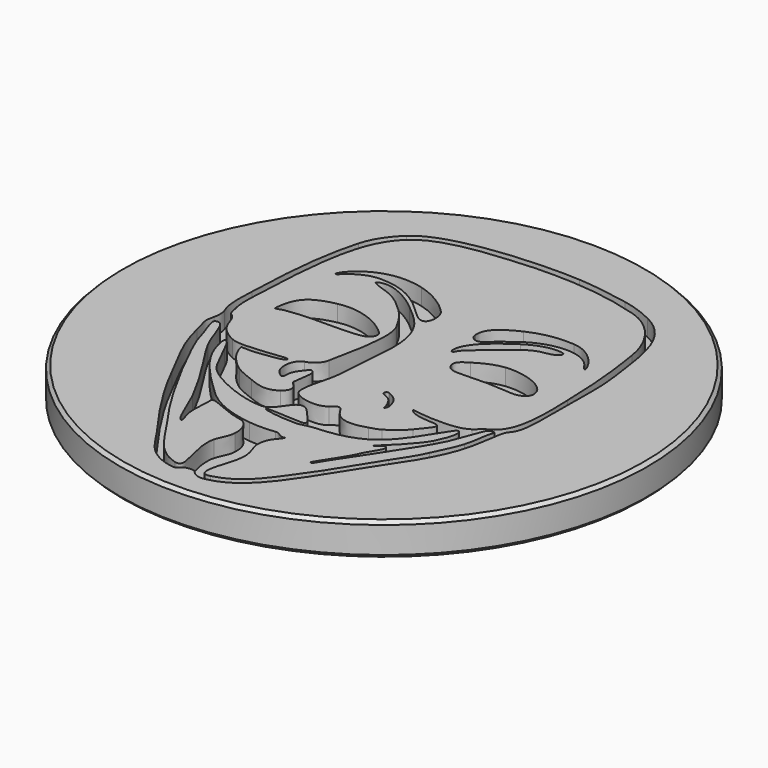
from build123d import *

# Parameters (mm, degrees)
POCKET_DEPTH = 1.25


with BuildPart() as part:
    # Sketch004 (on DatumPlane) → Revolution (revolve)
    with BuildSketch(Plane.YZ):
        Polygon((0, 0), (0, -2.5), (19.75, -2.5), (20, -2.25), (20, -0.25), (19.75, 0), align=None)
    revolve(axis=Axis((0, 0, 0), (0, 0, 1)))

    # Sketch (on DatumPlane) → Pocket (cut)
    with BuildSketch(Plane.XY):
        with BuildLine():
            add(Edge.make_bspline(
                [(0.955989, -17.970595), (0.45599, -18.116285), (0.051452, -18.007848), (-0.272673, -17.593384)],
                knots=[0, 0, 0, 0, 1, 1, 1, 1], degree=3))
            add(Edge.make_bspline(
                [(-0.272673, -17.593384), (-0.386063, -17.448371), (-1.074318, -17.538266), (-1.173695, -17.712468)],
                knots=[0, 0, 0, 0, 1, 1, 1, 1], degree=3))
            add(Edge.make_bspline(
                [(-1.173695, -17.712468), (-1.328191, -17.983232), (-1.57946, -17.973791), (-1.808674, -17.934485)],
                knots=[0, 0, 0, 0, 1, 1, 1, 1], degree=3))
            add(Edge.make_bspline(
                [(-1.808674, -17.934485), (-3.8582, -17.583033), (-4.463567, -16.00889), (-5.076913, -15.175156)],
                knots=[0, 0, 0, 0, 1, 1, 1, 1], degree=3))
            add(Edge.make_bspline(
                [(-5.076913, -15.175156), (-6.370006, -13.417455), (-8.048713, -11.00763), (-9.284741, -8.475715)],
                knots=[0, 0, 0, 0, 1, 1, 1, 1], degree=3))
            add(Edge.make_bspline(
                [(-9.284741, -8.475715), (-10.393303, -6.205146), (-10.903568, -5.678731), (-11.510247, -3.333993)],
                knots=[0, 0, 0, 0, 1, 1, 1, 1], degree=3))
            add(Edge.make_bspline(
                [(-11.510247, -3.333993), (-11.844722, -2.041324), (-11.883521, -2.229538), (-11.714822, -1.450266)],
                knots=[0, 0, 0, 0, 1, 1, 1, 1], degree=3))
            add(Edge.make_bspline(
                [(-11.714822, -1.450266), (-11.642813, -1.117589), (-11.617435, -0.739807), (-11.755674, -0.401457)],
                knots=[0, 0, 0, 0, 1, 1, 1, 1], degree=3))
            add(Edge.make_bspline(
                [(-11.755674, -0.401457), (-12.124292, 0.500645), (-12.012955, 1.536647), (-11.985565, 2.486755)],
                knots=[0, 0, 0, 0, 1, 1, 1, 1], degree=3))
            add(Edge.make_bspline(
                [(-11.985565, 2.486755), (-11.848638, 7.236746), (-11.42086, 9.439455), (-10.928608, 11.252422)],
                knots=[0, 0, 0, 0, 1, 1, 1, 1], degree=3))
            add(Edge.make_bspline(
                [(-10.928608, 11.252422), (-10.665951, 12.219781), (-10.04037, 13.106517), (-9.307432, 13.789184)],
                knots=[0, 0, 0, 0, 1, 1, 1, 1], degree=3))
            add(Edge.make_bspline(
                [(-9.307432, 13.789184), (-7.222938, 15.730675), (-0.588945, 15.955402), (2.178914, 15.790916)],
                knots=[0, 0, 0, 0, 1, 1, 1, 1], degree=3))
            add(Edge.make_bspline(
                [(2.178914, 15.790916), (3.492221, 15.712874), (4.778985, 15.485184), (6.063315, 15.248033)],
                knots=[0, 0, 0, 0, 1, 1, 1, 1], degree=3))
            add(Edge.make_bspline(
                [(6.063315, 15.248033), (6.876962, 15.097792), (7.659472, 14.809163), (8.418085, 14.442874)],
                knots=[0, 0, 0, 0, 1, 1, 1, 1], degree=3))
            add(Edge.make_bspline(
                [(8.418085, 14.442874), (11.13832, 13.129461), (11.141685, 10.033752), (11.557123, 7.45563)],
                knots=[0, 0, 0, 0, 1, 1, 1, 1], degree=3))
            add(Edge.make_bspline(
                [(11.557123, 7.45563), (11.755497, 6.224662), (11.696273, 4.964293), (11.696802, 3.72219)],
                knots=[0, 0, 0, 0, 1, 1, 1, 1], degree=3))
            add(Edge.make_bspline(
                [(11.696802, 3.72219), (11.698474, -0.148643), (11.740321, -1.409097), (11.196613, -2.026168)],
                knots=[0, 0, 0, 0, 1, 1, 1, 1], degree=3))
            add(Edge.make_bspline(
                [(11.196613, -2.026168), (10.887727, -2.376752), (10.883198, -2.919), (10.808501, -3.35662)],
                knots=[0, 0, 0, 0, 1, 1, 1, 1], degree=3))
            add(Edge.make_bspline(
                [(10.808501, -3.35662), (10.608052, -4.531265), (10.531217, -5.844466), (9.093366, -8.257254)],
                knots=[0, 0, 0, 0, 1, 1, 1, 1], degree=3))
            add(Edge.make_bspline(
                [(9.093366, -8.257254), (8.701528, -8.914775), (8.258129, -9.538388), (7.841759, -10.179484)],
                knots=[0, 0, 0, 0, 1, 1, 1, 1], degree=3))
            add(Edge.make_bspline(
                [(7.841759, -10.179484), (5.116784, -14.37514), (3.656559, -17.399391), (0.955989, -17.970595)],
                knots=[0, 0, 0, 0, 1, 1, 1, 1], degree=3))
        make_face()
        with BuildLine():
            add(Edge.make_bspline(
                [(4.919235, -3.373935), (4.954182, -3.435085), (8.222802, -3.912711), (9.204702, -3.146562)],
                knots=[0, 0, 0, 0, 1, 1, 1, 1], degree=3))
            add(Edge.make_bspline(
                [(9.204702, -3.146562), (9.555053, -2.873195), (9.88356, -2.564352), (10.260305, -2.334482)],
                knots=[0, 0, 0, 0, 1, 1, 1, 1], degree=3))
            add(Edge.make_bspline(
                [(10.260305, -2.334482), (11.59408, -1.520666), (11.309389, 2.090854), (11.288751, 3.295301)],
                knots=[0, 0, 0, 0, 1, 1, 1, 1], degree=3))
            add(Edge.make_bspline(
                [(11.288751, 3.295301), (11.225166, 7.005246), (10.759309, 9.5299), (10.669774, 10.15057)],
                knots=[0, 0, 0, 0, 1, 1, 1, 1], degree=3))
            add(Edge.make_bspline(
                [(10.669774, 10.15057), (10.404937, 11.986144), (9.166518, 13.814944), (7.334246, 14.36496)],
                knots=[0, 0, 0, 0, 1, 1, 1, 1], degree=3))
            add(Edge.make_bspline(
                [(7.334246, 14.36496), (4.138355, 15.324296), (1.531172, 15.363222), (-0.757897, 15.302156)],
                knots=[0, 0, 0, 0, 1, 1, 1, 1], degree=3))
            add(Edge.make_bspline(
                [(-0.757897, 15.302156), (-1.473839, 15.283064), (-3.839997, 15.078551), (-4.585995, 14.967617)],
                knots=[0, 0, 0, 0, 1, 1, 1, 1], degree=3))
            add(Edge.make_bspline(
                [(-4.585995, 14.967617), (-9.633568, 14.217026), (-11.123278, 12.915233), (-11.465564, 3.001232)],
                knots=[0, 0, 0, 0, 1, 1, 1, 1], degree=3))
            add(Edge.make_bspline(
                [(-11.465564, 3.001232), (-11.496764, 2.097818), (-11.647576, 1.037326), (-11.389173, 0.157956)],
                knots=[0, 0, 0, 0, 1, 1, 1, 1], degree=3))
            add(Edge.make_bspline(
                [(-11.389173, 0.157956), (-11.335283, -0.025453), (-11.348258, -0.235934), (-11.247293, -0.403574)],
                knots=[0, 0, 0, 0, 1, 1, 1, 1], degree=3))
            add(Edge.make_bspline(
                [(-11.247293, -0.403574), (-11.151853, -0.562049), (-10.970899, -0.6428), (-10.860769, -0.78921)],
                knots=[0, 0, 0, 0, 1, 1, 1, 1], degree=3))
            add(Edge.make_bspline(
                [(-10.860769, -0.78921), (-10.483388, -1.290902), (-10.696494, -2.234575), (-9.063295, -2.993168)],
                knots=[0, 0, 0, 0, 1, 1, 1, 1], degree=3))
            add(Edge.make_bspline(
                [(-9.063295, -2.993168), (-8.293506, -3.350736), (-6.498022, -3.010609), (-5.183276, -2.893388)],
                knots=[0, 0, 0, 0, 1, 1, 1, 1], degree=3))
            add(Edge.make_bspline(
                [(-5.183276, -2.893388), (-5.154553, -2.890827), (-4.896065, -2.920354), (-4.901484, -2.929033)],
                knots=[0, 0, 0, 0, 1, 1, 1, 1], degree=3))
            add(Edge.make_bspline(
                [(-4.901484, -2.929033), (-5.075157, -3.206824), (-5.474339, -3.246067), (-5.776514, -3.288485)],
                knots=[0, 0, 0, 0, 1, 1, 1, 1], degree=3))
            add(Edge.make_bspline(
                [(-5.776514, -3.288485), (-7.089355, -3.472762), (-7.03337, -3.490055), (-8.041665, -3.446812)],
                knots=[0, 0, 0, 0, 1, 1, 1, 1], degree=3))
            add(Edge.make_bspline(
                [(-8.041665, -3.446812), (-7.936445, -4.250785), (-7.130144, -5.195877), (-6.388908, -5.690118)],
                knots=[0, 0, 0, 0, 1, 1, 1, 1], degree=3))
            add(Edge.make_bspline(
                [(-6.388908, -5.690118), (-5.95569, -5.97898), (-5.455627, -6.132819), (-4.976986, -6.328463)],
                knots=[0, 0, 0, 0, 1, 1, 1, 1], degree=3))
            add(Edge.make_bspline(
                [(-4.976986, -6.328463), (-4.24428, -6.627992), (-3.527048, -6.90771), (-2.764265, -6.361546)],
                knots=[0, 0, 0, 0, 1, 1, 1, 1], degree=3))
            add(Edge.make_bspline(
                [(-2.764265, -6.361546), (-2.312801, -6.038289), (-2.246464, -5.587206), (-2.679302, -5.243946)],
                knots=[0, 0, 0, 0, 1, 1, 1, 1], degree=3))
            add(Edge.make_bspline(
                [(-2.679302, -5.243946), (-2.785431, -5.159766), (-2.860488, -5.068348), (-2.842221, -4.925917)],
                knots=[0, 0, 0, 0, 1, 1, 1, 1], degree=3))
            add(Edge.make_bspline(
                [(-2.842221, -4.925917), (-2.665988, -3.551989), (-2.576791, -3.456929), (-2.897805, -3.189319)],
                knots=[0, 0, 0, 0, 1, 1, 1, 1], degree=3))
            add(Edge.make_bspline(
                [(-2.897805, -3.189319), (-3.028213, -3.08084), (-3.349142, -3.60825), (-3.422146, -3.695202)],
                knots=[0, 0, 0, 0, 1, 1, 1, 1], degree=3))
            add(Edge.make_bspline(
                [(-3.422146, -3.695202), (-3.631675, -3.9448), (-3.748345, -4.272608), (-3.737698, -4.598807)],
                knots=[0, 0, 0, 0, 1, 1, 1, 1], degree=3))
            add(Edge.make_bspline(
                [(-3.737698, -4.598807), (-3.733846, -4.717044), (-3.790594, -4.950492), (-3.973093, -4.821925)],
                knots=[0, 0, 0, 0, 1, 1, 1, 1], degree=3))
            add(Edge.make_bspline(
                [(-3.973093, -4.821925), (-4.216467, -4.650475), (-4.428176, -4.443635), (-4.508334, -4.142856)],
                knots=[0, 0, 0, 0, 1, 1, 1, 1], degree=3))
            add(Edge.make_bspline(
                [(-4.508334, -4.142856), (-4.729484, -3.313229), (-4.343129, -2.702465), (-3.955376, -2.581963)],
                knots=[0, 0, 0, 0, 1, 1, 1, 1], degree=3))
            add(Edge.make_bspline(
                [(-3.955376, -2.581963), (-3.414949, -2.414026), (-3.034965, -2.090981), (-2.923882, -1.544457)],
                knots=[0, 0, 0, 0, 1, 1, 1, 1], degree=3))
            add(Edge.make_bspline(
                [(-2.923882, -1.544457), (-2.640651, -0.151077), (-1.862416, 3.125587), (-2.497628, 4.293415)],
                knots=[0, 0, 0, 0, 1, 1, 1, 1], degree=3))
            add(Edge.make_bspline(
                [(-2.497628, 4.293415), (-2.851048, 4.943189), (-3.171659, 5.497142), (-3.704911, 6.018096)],
                knots=[0, 0, 0, 0, 1, 1, 1, 1], degree=3))
            add(Edge.make_bspline(
                [(-3.704911, 6.018096), (-5.540739, 7.811506), (-5.97474, 7.297452), (-7.040228, 7.984416)],
                knots=[0, 0, 0, 0, 1, 1, 1, 1], degree=3))
            add(Edge.make_bspline(
                [(-7.040228, 7.984416), (-6.132178, 8.635566), (-4.347616, 7.517247), (-3.453621, 6.750442)],
                knots=[0, 0, 0, 0, 1, 1, 1, 1], degree=3))
            add(Edge.make_bspline(
                [(-3.453621, 6.750442), (-2.068897, 5.562738), (-0.76846, 4.691137), (-1.048389, 1.2778)],
                knots=[0, 0, 0, 0, 1, 1, 1, 1], degree=3))
            add(Edge.make_bspline(
                [(-1.048389, 1.2778), (-1.154603, -0.017219), (-1.203943, -1.319413), (-1.337864, -2.612887)],
                knots=[0, 0, 0, 0, 1, 1, 1, 1], degree=3))
            add(Edge.make_bspline(
                [(-1.337864, -2.612887), (-1.45064, -3.701933), (-2.008869, -4.906698), (-1.82747, -5.747522)],
                knots=[0, 0, 0, 0, 1, 1, 1, 1], degree=3))
            add(Edge.make_bspline(
                [(-1.82747, -5.747522), (-1.694311, -6.364679), (0.087478, -6.731264), (0.761255, -6.157605)],
                knots=[0, 0, 0, 0, 1, 1, 1, 1], degree=3))
            add(Edge.make_bspline(
                [(0.761255, -6.157605), (1.281193, -5.714926), (1.355827, -5.728472), (1.725418, -6.323362)],
                knots=[0, 0, 0, 0, 1, 1, 1, 1], degree=3))
            add(Edge.make_bspline(
                [(1.725418, -6.323362), (2.269867, -7.199704), (3.283835, -7.12579), (4.268064, -6.807994)],
                knots=[0, 0, 0, 0, 1, 1, 1, 1], degree=3))
            add(Edge.make_bspline(
                [(4.268064, -6.807994), (4.540797, -6.719919), (4.831034, -6.652419), (5.072249, -6.5073)],
                knots=[0, 0, 0, 0, 1, 1, 1, 1], degree=3))
            add(Edge.make_bspline(
                [(5.072249, -6.5073), (5.592547, -6.19433), (6.079867, -5.83003), (6.466857, -5.350139)],
                knots=[0, 0, 0, 0, 1, 1, 1, 1], degree=3))
            add(Edge.make_bspline(
                [(6.466857, -5.350139), (7.049809, -4.627234), (7.6382, -4.077959), (7.073007, -3.976275)],
                knots=[0, 0, 0, 0, 1, 1, 1, 1], degree=3))
            add(Edge.make_bspline(
                [(7.073007, -3.976275), (6.741093, -3.916563), (6.399061, -3.942683), (6.064373, -3.890401)],
                knots=[0, 0, 0, 0, 1, 1, 1, 1], degree=3))
            add(Edge.make_bspline(
                [(6.064373, -3.890401), (5.681235, -3.830584), (5.133357, -3.748521), (4.919235, -3.373935)],
                knots=[0, 0, 0, 0, 1, 1, 1, 1], degree=3))
        make_face(mode=Mode.SUBTRACT)
        with BuildLine():
            add(Edge.make_bspline(
                [(0.120011, -7.457768), (-0.015731, -7.302616), (-0.16394, -7.139527), (-0.363647, -7.088346)],
                knots=[0, 0, 0, 0, 1, 1, 1, 1], degree=3))
            add(Edge.make_bspline(
                [(-0.363647, -7.088346), (-1.286937, -6.851766), (-1.358163, -8.614632), (-2.495469, -8.59518)],
                knots=[0, 0, 0, 0, 1, 1, 1, 1], degree=3))
            add(Edge.make_bspline(
                [(-2.495469, -8.59518), (-4.091118, -8.567896), (-6.544716, -7.493137), (-7.36865, -6.62886)],
                knots=[0, 0, 0, 0, 1, 1, 1, 1], degree=3))
            add(Edge.make_bspline(
                [(-7.36865, -6.62886), (-7.947579, -6.021588), (-8.075278, -5.358479), (-8.721983, -4.189635)],
                knots=[0, 0, 0, 0, 1, 1, 1, 1], degree=3))
            add(Edge.make_bspline(
                [(-8.721983, -4.189635), (-8.843247, -3.970475), (-8.95035, -3.704283), (-9.101268, -3.506332)],
                knots=[0, 0, 0, 0, 1, 1, 1, 1], degree=3))
            add(Edge.make_bspline(
                [(-9.101268, -3.506332), (-9.238238, -3.32667), (-9.434982, -3.264249), (-9.395549, -3.557323)],
                knots=[0, 0, 0, 0, 1, 1, 1, 1], degree=3))
            add(Edge.make_bspline(
                [(-9.395549, -3.557323), (-9.127663, -5.548344), (-7.592445, -7.083541), (-6.214008, -8.411453)],
                knots=[0, 0, 0, 0, 1, 1, 1, 1], degree=3))
            add(Edge.make_bspline(
                [(-6.214008, -8.411453), (-5.621151, -8.982572), (-4.587392, -10.311077), (-1.665185, -10.668603)],
                knots=[0, 0, 0, 0, 1, 1, 1, 1], degree=3))
            add(Edge.make_bspline(
                [(-1.665185, -10.668603), (-1.004997, -10.749375), (-0.337443, -10.750624), (0.324523, -10.659755)],
                knots=[0, 0, 0, 0, 1, 1, 1, 1], degree=3))
            add(Edge.make_bspline(
                [(0.324523, -10.659755), (0.663698, -10.613189), (0.864062, -11.06207), (1.228467, -10.896822)],
                knots=[0, 0, 0, 0, 1, 1, 1, 1], degree=3))
            add(Edge.make_bspline(
                [(1.228467, -10.896822), (1.213524, -11.066198), (1.013583, -11.25166), (0.809283, -11.515227)],
                knots=[0, 0, 0, 0, 1, 1, 1, 1], degree=3))
            add(Edge.make_bspline(
                [(0.809283, -11.515227), (0.56485, -11.83059), (0.416323, -12.432358), (0.508906, -12.830588)],
                knots=[0, 0, 0, 0, 1, 1, 1, 1], degree=3))
            add(Edge.make_bspline(
                [(0.508906, -12.830588), (0.674938, -13.544793), (1.077168, -13.882126), (0.664397, -15.316782)],
                knots=[0, 0, 0, 0, 1, 1, 1, 1], degree=3))
            add(Edge.make_bspline(
                [(0.664397, -15.316782), (0.367259, -16.349525), (-0.186122, -17.768051), (0.861712, -17.488355)],
                knots=[0, 0, 0, 0, 1, 1, 1, 1], degree=3))
            add(Edge.make_bspline(
                [(0.861712, -17.488355), (2.964176, -16.927184), (3.73242, -15.452524), (5.628107, -12.77221)],
                knots=[0, 0, 0, 0, 1, 1, 1, 1], degree=3))
            add(Edge.make_bspline(
                [(5.628107, -12.77221), (6.0714, -12.145444), (7.771274, -9.342173), (7.785731, -9.320498)],
                knots=[0, 0, 0, 0, 1, 1, 1, 1], degree=3))
            add(Edge.make_bspline(
                [(7.785731, -9.320498), (8.267992, -8.598291), (8.758932, -7.875873), (9.116077, -7.07844)],
                knots=[0, 0, 0, 0, 1, 1, 1, 1], degree=3))
            add(Edge.make_bspline(
                [(9.116077, -7.07844), (9.436964, -6.36197), (9.812947, -5.671195), (10.047263, -4.914381)],
                knots=[0, 0, 0, 0, 1, 1, 1, 1], degree=3))
            add(Edge.make_bspline(
                [(10.047263, -4.914381), (10.274783, -4.179517), (10.266634, -3.400203), (10.510495, -2.671392)],
                knots=[0, 0, 0, 0, 1, 1, 1, 1], degree=3))
            add(Edge.make_bspline(
                [(10.510495, -2.671392), (10.528868, -2.616464), (10.110403, -2.522463), (9.932031, -2.904966)],
                knots=[0, 0, 0, 0, 1, 1, 1, 1], degree=3))
            add(Edge.make_bspline(
                [(9.932031, -2.904966), (9.58058, -3.658584), (9.399647, -4.472421), (9.047794, -5.234188)],
                knots=[0, 0, 0, 0, 1, 1, 1, 1], degree=3))
            add(Edge.make_bspline(
                [(9.047794, -5.234188), (8.236327, -6.990937), (4.987075, -11.552714), (4.615197, -12.292446)],
                knots=[0, 0, 0, 0, 1, 1, 1, 1], degree=3))
            add(Edge.make_bspline(
                [(4.615197, -12.292446), (4.57623, -12.369959), (4.509533, -12.46125), (4.392842, -12.452149)],
                knots=[0, 0, 0, 0, 1, 1, 1, 1], degree=3))
            add(Edge.make_bspline(
                [(4.392842, -12.452149), (4.232123, -12.439618), (5.582641, -10.608151), (5.870317, -9.921674)],
                knots=[0, 0, 0, 0, 1, 1, 1, 1], degree=3))
            add(Edge.make_bspline(
                [(5.870317, -9.921674), (6.279236, -8.945869), (6.929836, -8.351298), (6.631703, -8.092239)],
                knots=[0, 0, 0, 0, 1, 1, 1, 1], degree=3))
            add(Edge.make_bspline(
                [(6.631703, -8.092239), (6.463386, -7.946422), (6.125227, -8.486108), (5.961821, -8.486256)],
                knots=[0, 0, 0, 0, 1, 1, 1, 1], degree=3))
            add(Edge.make_bspline(
                [(5.961821, -8.486256), (5.958138, -8.46564), (5.957016, -8.421867), (5.974648, -8.406077)],
                knots=[0, 0, 0, 0, 1, 1, 1, 1], degree=3))
            add(Edge.make_bspline(
                [(5.974648, -8.406077), (6.671116, -7.781745), (7.981438, -6.443165), (8.335493, -5.745046)],
                knots=[0, 0, 0, 0, 1, 1, 1, 1], degree=3))
            add(Edge.make_bspline(
                [(8.335493, -5.745046), (9.270277, -3.90181), (8.762996, -3.554444), (8.466451, -3.999558)],
                knots=[0, 0, 0, 0, 1, 1, 1, 1], degree=3))
            add(Edge.make_bspline(
                [(8.466451, -3.999558), (6.602747, -6.796966), (6.06086, -8.627544), (1.774948, -8.834575)],
                knots=[0, 0, 0, 0, 1, 1, 1, 1], degree=3))
            add(Edge.make_bspline(
                [(1.774948, -8.834575), (1.328586, -8.856144), (0.898733, -9.066011), (0.470679, -9.059746)],
                knots=[0, 0, 0, 0, 1, 1, 1, 1], degree=3))
            add(Edge.make_bspline(
                [(0.470679, -9.059746), (-0.304042, -9.048379), (-1.086637, -8.994172), (-1.847917, -8.807947)],
                knots=[0, 0, 0, 0, 1, 1, 1, 1], degree=3))
            add(Edge.make_bspline(
                [(-1.847917, -8.807947), (-1.89459, -8.796538), (-1.931208, -8.744109), (-1.972525, -8.71075)],
                knots=[0, 0, 0, 0, 1, 1, 1, 1], degree=3))
            add(Edge.make_bspline(
                [(-1.972525, -8.71075), (-1.930933, -8.687848), (-1.888769, -8.644033), (-1.847811, -8.645112)],
                knots=[0, 0, 0, 0, 1, 1, 1, 1], degree=3))
            add(Edge.make_bspline(
                [(-1.847811, -8.645112), (0.700909, -8.713015), (0.835953, -8.831315), (0.959333, -8.69733)],
                knots=[0, 0, 0, 0, 1, 1, 1, 1], degree=3))
            add(Edge.make_bspline(
                [(0.959333, -8.69733), (1.122274, -8.520419), (0.88127, -8.327908), (0.120011, -7.457768)],
                knots=[0, 0, 0, 0, 1, 1, 1, 1], degree=3))
        make_face(mode=Mode.SUBTRACT)
        with BuildLine():
            add(Edge.make_bspline(
                [(-11.331473, -1.82517), (-11.564391, -1.928273), (-11.047162, -3.096905), (-10.989229, -3.271298)],
                knots=[0, 0, 0, 0, 1, 1, 1, 1], degree=3))
            add(Edge.make_bspline(
                [(-10.989229, -3.271298), (-10.504576, -4.73002), (-10.763804, -4.204599), (-10.172704, -5.480695)],
                knots=[0, 0, 0, 0, 1, 1, 1, 1], degree=3))
            add(Edge.make_bspline(
                [(-10.172704, -5.480695), (-9.304299, -7.355491), (-7.337217, -11.18543), (-5.48524, -13.66701)],
                knots=[0, 0, 0, 0, 1, 1, 1, 1], degree=3))
            add(Edge.make_bspline(
                [(-5.48524, -13.66701), (-4.45419, -15.0486), (-3.722204, -16.886523), (-1.919418, -17.396957)],
                knots=[0, 0, 0, 0, 1, 1, 1, 1], degree=3))
            add(Edge.make_bspline(
                [(-1.919418, -17.396957), (-0.735291, -17.732216), (-2.313626, -15.300124), (-1.910359, -13.697617)],
                knots=[0, 0, 0, 0, 1, 1, 1, 1], degree=3))
            add(Edge.make_bspline(
                [(-1.910359, -13.697617), (-1.790238, -13.220308), (-1.465986, -12.828407), (-1.446576, -12.305612)],
                knots=[0, 0, 0, 0, 1, 1, 1, 1], degree=3))
            add(Edge.make_bspline(
                [(-1.446576, -12.305612), (-1.425325, -11.733223), (-1.547287, -11.245501), (-1.978939, -10.87265)],
                knots=[0, 0, 0, 0, 1, 1, 1, 1], degree=3))
            add(Edge.make_bspline(
                [(-1.978939, -10.87265), (-2.19304, -10.687717), (-2.360532, -10.757757), (-3.159319, -10.506149)],
                knots=[0, 0, 0, 0, 1, 1, 1, 1], degree=3))
            add(Edge.make_bspline(
                [(-3.159319, -10.506149), (-4.043112, -10.227765), (-5.157516, -9.532503), (-5.179699, -9.907513)],
                knots=[0, 0, 0, 0, 1, 1, 1, 1], degree=3))
            add(Edge.make_bspline(
                [(-5.179699, -9.907513), (-5.275965, -11.535442), (-5.327357, -11.7455), (-4.95258, -12.829847)],
                knots=[0, 0, 0, 0, 1, 1, 1, 1], degree=3))
            add(Edge.make_bspline(
                [(-4.95258, -12.829847), (-4.939478, -12.867756), (-4.961047, -12.929648), (-4.975843, -12.964763)],
                knots=[0, 0, 0, 0, 1, 1, 1, 1], degree=3))
            add(Edge.make_bspline(
                [(-4.975843, -12.964763), (-5.295692, -13.000238), (-5.949509, -11.014699), (-6.409016, -10.114756)],
                knots=[0, 0, 0, 0, 1, 1, 1, 1], degree=3))
            add(Edge.make_bspline(
                [(-6.409016, -10.114756), (-7.896631, -7.201313), (-9.014739, -5.880491), (-9.796784, -4.424415)],
                knots=[0, 0, 0, 0, 1, 1, 1, 1], degree=3))
            add(Edge.make_bspline(
                [(-9.796784, -4.424415), (-10.437351, -3.231779), (-10.611954, -1.506654), (-11.331473, -1.82517)],
                knots=[0, 0, 0, 0, 1, 1, 1, 1], degree=3))
        make_face(mode=Mode.SUBTRACT)
        with BuildLine():
            add(Edge.make_bspline(
                [(3.385181, -4.333018), (3.453677, -4.258151), (3.264531, -3.631406), (2.961933, -3.285373)],
                knots=[0, 0, 0, 0, 1, 1, 1, 1], degree=3))
            add(Edge.make_bspline(
                [(2.961933, -3.285373), (2.775158, -3.071781), (2.578901, -3.032728), (2.338299, -2.920418)],
                knots=[0, 0, 0, 0, 1, 1, 1, 1], degree=3))
            add(Edge.make_bspline(
                [(2.338299, -2.920418), (2.218178, -2.864326), (2.169537, -2.737961), (2.253442, -2.628572)],
                knots=[0, 0, 0, 0, 1, 1, 1, 1], degree=3))
            add(Edge.make_bspline(
                [(2.253442, -2.628572), (2.328414, -2.530824), (2.407937, -2.552012), (2.518322, -2.600674)],
                knots=[0, 0, 0, 0, 1, 1, 1, 1], degree=3))
            add(Edge.make_bspline(
                [(2.518322, -2.600674), (2.920954, -2.778199), (3.248233, -3.030252), (3.40893, -3.450219)],
                knots=[0, 0, 0, 0, 1, 1, 1, 1], degree=3))
            add(Edge.make_bspline(
                [(3.40893, -3.450219), (3.521516, -3.744415), (3.644282, -4.049829), (3.385181, -4.333018)],
                knots=[0, 0, 0, 0, 1, 1, 1, 1], degree=3))
        make_face()
        with BuildLine():
            add(Edge.make_bspline(
                [(-7.047213, 4.432819), (-5.616282, 4.739249), (-3.965452, 4.14673), (-2.901234, 3.144319)],
                knots=[0, 0, 0, 0, 1, 1, 1, 1], degree=3))
            add(Edge.make_bspline(
                [(-2.901234, 3.144319), (-2.475424, 2.743232), (-2.834813, 2.315305), (-3.207537, 2.187395)],
                knots=[0, 0, 0, 0, 1, 1, 1, 1], degree=3))
            add(Edge.make_bspline(
                [(-3.207537, 2.187395), (-4.082059, 1.887252), (-6.542811, 2.075889), (-7.920782, 1.950794)],
                knots=[0, 0, 0, 0, 1, 1, 1, 1], degree=3))
            add(Edge.make_bspline(
                [(-7.920782, 1.950794), (-9.433606, 1.813444), (-8.96032, 1.80159), (-9.583826, 1.649444)],
                knots=[0, 0, 0, 0, 1, 1, 1, 1], degree=3))
            add(Edge.make_bspline(
                [(-9.583826, 1.649444), (-9.589795, 1.71068), (-9.606559, 1.773058), (-9.600167, 1.832959)],
                knots=[0, 0, 0, 0, 1, 1, 1, 1], degree=3))
            add(Edge.make_bspline(
                [(-9.600167, 1.832959), (-9.426918, 3.452675), (-8.841447, 4.04858), (-7.047213, 4.432819)],
                knots=[0, 0, 0, 0, 1, 1, 1, 1], degree=3))
        make_face()
        with BuildLine():
            add(Edge.make_bspline(
                [(7.614387, 1.943682), (4.715803, 2.225326), (3.511948, 1.565413), (3.123667, 2.431828)],
                knots=[0, 0, 0, 0, 1, 1, 1, 1], degree=3))
            add(Edge.make_bspline(
                [(3.123667, 2.431828), (2.88768, 2.958433), (3.410962, 3.22761), (3.793888, 3.476085)],
                knots=[0, 0, 0, 0, 1, 1, 1, 1], degree=3))
            add(Edge.make_bspline(
                [(3.793888, 3.476085), (4.38719, 3.861107), (5.081986, 4.1803), (5.790074, 4.265263)],
                knots=[0, 0, 0, 0, 1, 1, 1, 1], degree=3))
            add(Edge.make_bspline(
                [(5.790074, 4.265263), (6.937795, 4.402974), (8.8418, 3.933815), (9.197273, 2.927001)],
                knots=[0, 0, 0, 0, 1, 1, 1, 1], degree=3))
            add(Edge.make_bspline(
                [(9.197273, 2.927001), (9.386291, 2.391611), (9.06441, 2.038996), (8.53664, 1.937269)],
                knots=[0, 0, 0, 0, 1, 1, 1, 1], degree=3))
            add(Edge.make_bspline(
                [(8.53664, 1.937269), (8.233639, 1.878891), (7.921537, 1.913837), (7.614387, 1.943682)],
                knots=[0, 0, 0, 0, 1, 1, 1, 1], degree=3))
        make_face()
        with BuildLine():
            add(Edge.make_bspline(
                [(-4.506027, 9.178068), (-3.02254, 8.794465), (-1.839027, 7.738671), (-1.583546, 7.371218)],
                knots=[0, 0, 0, 0, 1, 1, 1, 1], degree=3))
            add(Edge.make_bspline(
                [(-1.583546, 7.371218), (-1.142686, 6.737191), (-1.338774, 5.12408), (-2.490368, 6.237468)],
                knots=[0, 0, 0, 0, 1, 1, 1, 1], degree=3))
            add(Edge.make_bspline(
                [(-2.490368, 6.237468), (-3.892765, 7.593362), (-5.067304, 8.501751), (-7.027655, 8.505434)],
                knots=[0, 0, 0, 0, 1, 1, 1, 1], degree=3))
            add(Edge.make_bspline(
                [(-7.027655, 8.505434), (-8.392058, 8.507995), (-9.133484, 7.589065), (-9.434876, 7.374499)],
                knots=[0, 0, 0, 0, 1, 1, 1, 1], degree=3))
            add(Edge.make_bspline(
                [(-9.434876, 7.374499), (-10.087656, 6.909742), (-8.342824, 10.170213), (-4.506027, 9.178068)],
                knots=[0, 0, 0, 0, 1, 1, 1, 1], degree=3))
        make_face()
        with BuildLine():
            add(Edge.make_bspline(
                [(1.79711, 6.438868), (1.701098, 7.499128), (2.930204, 8.149199), (3.756021, 8.539406)],
                knots=[0, 0, 0, 0, 1, 1, 1, 1], degree=3))
            add(Edge.make_bspline(
                [(3.756021, 8.539406), (4.800406, 9.032886), (5.953989, 9.213522), (7.101667, 9.125342)],
                knots=[0, 0, 0, 0, 1, 1, 1, 1], degree=3))
            add(Edge.make_bspline(
                [(7.101667, 9.125342), (8.797053, 8.99504), (9.723434, 7.144311), (9.626617, 7.031281)],
                knots=[0, 0, 0, 0, 1, 1, 1, 1], degree=3))
            add(Edge.make_bspline(
                [(9.626617, 7.031281), (9.526922, 6.914907), (9.309731, 7.350559), (9.252899, 7.420642)],
                knots=[0, 0, 0, 0, 1, 1, 1, 1], degree=3))
            add(Edge.make_bspline(
                [(9.252899, 7.420642), (8.121096, 8.816414), (5.759954, 8.305705), (4.482906, 7.391114)],
                knots=[0, 0, 0, 0, 1, 1, 1, 1], degree=3))
            add(Edge.make_bspline(
                [(4.482906, 7.391114), (4.108997, 7.123335), (3.733373, 6.857397), (3.3721, 6.572599)],
                knots=[0, 0, 0, 0, 1, 1, 1, 1], degree=3))
            add(Edge.make_bspline(
                [(3.3721, 6.572599), (3.121826, 6.375305), (2.667483, 5.791317), (2.308856, 5.856976)],
                knots=[0, 0, 0, 0, 1, 1, 1, 1], degree=3))
            add(Edge.make_bspline(
                [(2.308856, 5.856976), (2.038558, 5.906442), (1.828923, 6.087417), (1.79711, 6.438868)],
                knots=[0, 0, 0, 0, 1, 1, 1, 1], degree=3))
        make_face()
        with BuildLine():
            add(Edge.make_bspline(
                [(1.943858, 4.04204), (1.93137, 5.293921), (3.595684, 6.462871), (4.625188, 7.145179)],
                knots=[0, 0, 0, 0, 1, 1, 1, 1], degree=3))
            add(Edge.make_bspline(
                [(4.625188, 7.145179), (6.063167, 8.098229), (7.436883, 7.941321), (7.407292, 7.708741)],
                knots=[0, 0, 0, 0, 1, 1, 1, 1], degree=3))
            add(Edge.make_bspline(
                [(7.407292, 7.708741), (7.3443, 7.214542), (6.359987, 7.201525), (6.008049, 7.079266)],
                knots=[0, 0, 0, 0, 1, 1, 1, 1], degree=3))
            add(Edge.make_bspline(
                [(6.008049, 7.079266), (5.216013, 6.804099), (4.667162, 6.265027), (4.049942, 5.728642)],
                knots=[0, 0, 0, 0, 1, 1, 1, 1], degree=3))
            add(Edge.make_bspline(
                [(4.049942, 5.728642), (3.376863, 5.143722), (2.35119, 4.406509), (2.213627, 4.013888)],
                knots=[0, 0, 0, 0, 1, 1, 1, 1], degree=3))
            add(Edge.make_bspline(
                [(2.213627, 4.013888), (2.184671, 3.931232), (2.127564, 3.843052), (2.025731, 3.897493)],
                knots=[0, 0, 0, 0, 1, 1, 1, 1], degree=3))
            add(Edge.make_bspline(
                [(2.025731, 3.897493), (1.97654, 3.923782), (1.96003, 4.0112), (1.943858, 4.04204)],
                knots=[0, 0, 0, 0, 1, 1, 1, 1], degree=3))
        make_face()
    extrude(amount=-POCKET_DEPTH, mode=Mode.SUBTRACT)


solid = part.part
